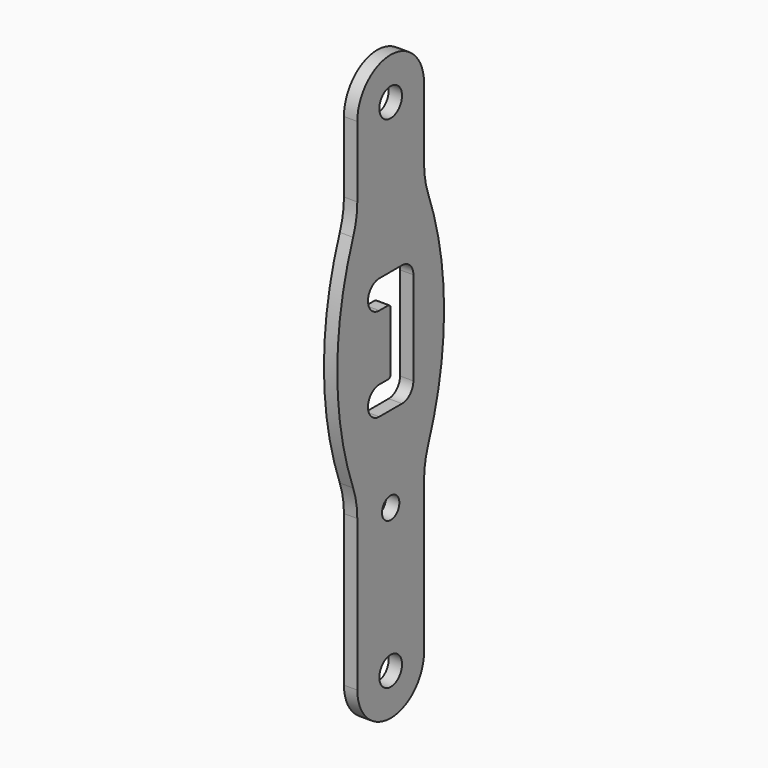
from build123d import *

# Parameters (mm, degrees)
F0_R     = 4.25
F0_R_2   = 3.25
F1_DEPTH = 4
F2_R     = 25
F3_R     = 1


with BuildPart() as f1:
    # F0 (on Right) → F1 (new body)
    with BuildSketch(Plane.YZ):
        with BuildLine():
            ThreePointArc((-12.5, 0), (0, -12.5), (12.5, 0))
            Line((12.5, 0), (12.5, 50.003379))
            ThreePointArc((12.5, 50.003379), (20, 87), (12.5, 123.996621))
            Line((12.5, 123.996621), (12.5, 150))
            ThreePointArc((12.5, 150), (0, 162.5), (-12.5, 150))
            Line((-12.5, 150), (-12.5, 123.996621))
            ThreePointArc((-12.5, 123.996621), (-20, 87), (-12.5, 50.003379))
            Line((-12.5, 50.003379), (-12.5, 0))
        make_face()
        Circle(F0_R, mode=Mode.SUBTRACT)
        with Locations((0, 43)):
            Circle(F0_R_2, mode=Mode.SUBTRACT)
        with BuildLine():
            ThreePointArc((-4.25, 96.75), (-8.5, 101), (-4.25, 105.25))
            Line((-4.25, 105.25), (4.25, 105.25))
            ThreePointArc((4.25, 105.25), (7.255204, 104.005204), (8.5, 101))
            Line((8.5, 101), (8.5, 73))
            ThreePointArc((8.5, 73), (7.255204, 69.994796), (4.25, 68.75))
            Line((4.25, 68.75), (-4.25, 68.75))
            ThreePointArc((-4.25, 68.75), (-8.5, 73), (-4.25, 77.25))
            Line((-4.25, 77.25), (0, 77.25))
            Line((0, 77.25), (0, 96.75))
            Line((0, 96.75), (-4.25, 96.75))
        make_face(mode=Mode.SUBTRACT)
        with Locations((0, 150)):
            Circle(F0_R, mode=Mode.SUBTRACT)
    extrude(amount=F1_DEPTH)

    # F2
    f2_edges = [f1.edges().sort_by_distance(p)[0] for p in [
        (2, 12.5, 123.996621),
        (2, -12.5, 123.996621),
        (2, -12.5, 50.003379),
        (2, 12.5, 50.003379),
    ]]
    fillet(f2_edges, radius=F2_R)

    # F3
    f3_edges = [f1.edges().sort_by_distance(p)[0] for p in [
        (2, 0, 96.75),
        (2, 0, 77.25),
    ]]
    fillet(f3_edges, radius=F3_R)


solid = f1.part
